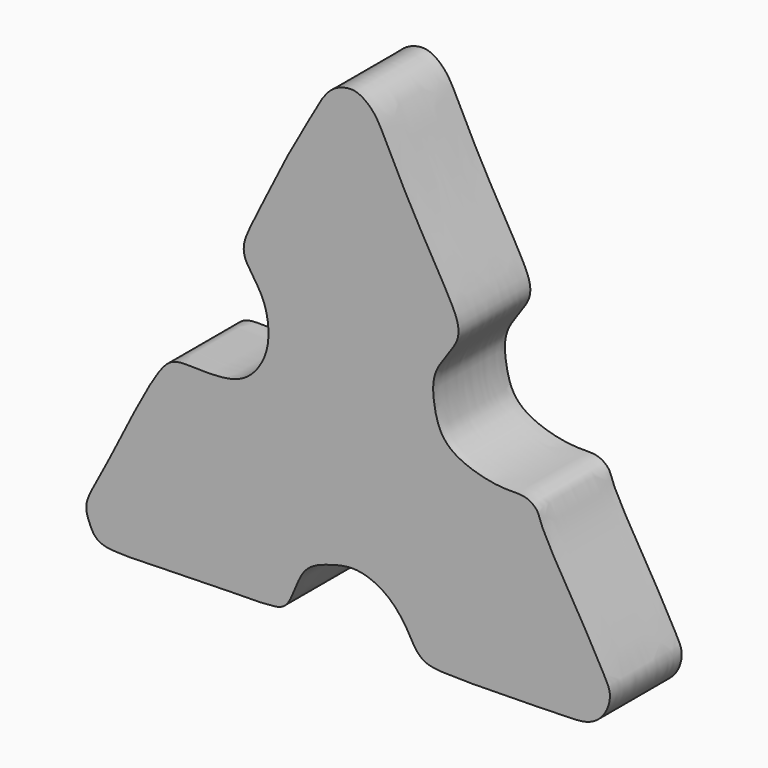
from build123d import *

# Parameters (mm, degrees)
F1_DEPTH = 19.05


with BuildPart() as f1:
    # F0 (on Front) → F1 (new body)
    with BuildSketch(Plane.XZ):
        with BuildLine():
            add(Edge.make_bspline(
                [(-17.5731386989, 32.9885371029), (-15.7016030764, 36.5319062901), (-12.6656062726, 41.6784783189), (-9.3265828178, 48.033001162), (-6.054804469, 49.7193083786), (-2.9322986342, 50.1020503994), (0.3123103541, 47.8430742666), (2.6958577089, 44.1842237568), (7.8250651326, 32.8766683672), (17.2044856616, 17.3330239377), (18.7614739281, 13.301865785), (18.7894441429, 10.2580523965), (16.2359710497, 6.7360164712), (13.0229360994, 2.2881613958), (13.4724958384, -3.93560412), (15.6478854876, -11.5864524154), (27.6873575361, -14.6990049533), (32.842173652, -13.8138421977), (35.7468674382, -15.9917155596), (36.1505243967, -19.1600781417), (45.1866901838, -33.8331973678), (49.4753647545, -41.8609024196), (51.2352482778, -45.1361376555), (50.3692894394, -48.7104563934), (48.3809318428, -51.0802166077), (45.6284048158, -52.4664160651), (39.4205668108, -52.5618256614), (16.7191685965, -53.1539634211), (11.3945876227, -52.3720310971), (9.2550036162, -49.9890176812), (7.8428724579, -46.9936348214), (4.1064457842, -41.9344090805), (-2.7636307614, -38.857318078), (-8.946691282, -40.4888447282), (-14.9756183045, -42.652687019), (-16.8572572565, -51.3713005802), (-20.8670302364, -52.2683513321), (-26.55277376, -52.367007075), (-39.8814755175, -52.4557588572), (-53.6610088558, -53.1904710611), (-58.3579996226, -52.1972382775), (-59.8505925232, -48.780170151), (-60.8531617724, -45.4887684685), (-55.8549609598, -37.603617829), (-45.26124338, -14.7724620269), (-40.699901613, -12.653808745), (-34.021739054, -13.2979233989), (-26.7372594172, -12.4488347382), (-22.7046879369, -7.5037989831), (-21.2251920611, -2.4803566784), (-22.135892766, 4.842819967), (-26.3849142157, 9.7776264683), (-27.3354799559, 13.5710740212), (-23.9941436391, 20.0353881711), (-19.8038961958, 28.7650549084), (-17.5731386989, 32.9885371029)],
                knots=[0, 0, 0, 0, 0.0240788365, 0.0433837341, 0.0570818201, 0.069774288, 0.0838413817, 0.0988729127, 0.1255631801, 0.1575450562, 0.1725151826, 0.1845580769, 0.1998729972, 0.2170593026, 0.2352208124, 0.2552948718, 0.2805652911, 0.2975965128, 0.3100946496, 0.3229729144, 0.3538335243, 0.3769938866, 0.3904630093, 0.4041191215, 0.417034284, 0.4291017544, 0.4478804242, 0.4836087979, 0.5006747794, 0.512814014, 0.526265746, 0.5447560321, 0.5646754181, 0.5831857986, 0.6014296744, 0.622331149, 0.6359872691, 0.6533036833, 0.6810270528, 0.7089843177, 0.724176535, 0.737628267, 0.7502161901, 0.7729879345, 0.8103101041, 0.8259866817, 0.8447396856, 0.8647018557, 0.8826596906, 0.8995259379, 0.9194292012, 0.9381564236, 0.9518125417, 0.9712994802, 1, 1, 1, 1], degree=3))
        make_face()
    extrude(amount=F1_DEPTH)


solid = f1.part
